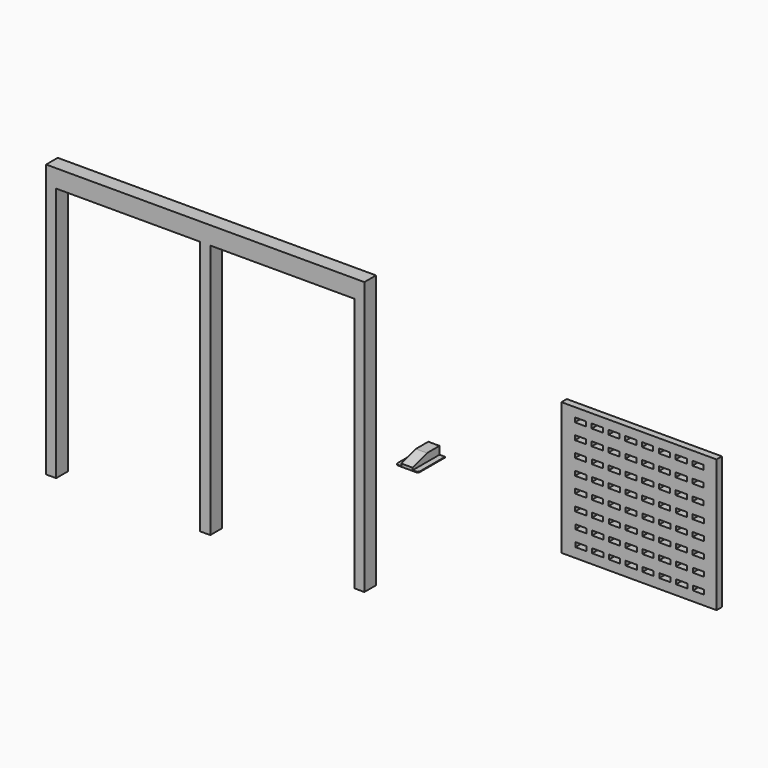
from build123d import *

# Parameters (mm, degrees)
F0_W      = 100
F0_H      = 150
F1_DEPTH  = 3
F2_R      = 10
F3_W      = 50
F3_H      = 150
F4_DEPTH  = 35
F6_DEPTH  = 75.001
F7_W      = 643.5
F7_H      = 80
F8_DEPTH  = 65
F9_W      = 693
F9_H      = 593
F9_W_2    = 50
F9_H_2    = 20
F10_DEPTH = 30


with BuildPart() as f1:
    # F0 (on Top) → F1 (new body)
    with BuildSketch(Plane.XY):
        Rectangle(F0_W, F0_H)
    extrude(amount=F1_DEPTH)

    # F2
    f2_edges = [f1.edges().sort_by_distance(p)[0] for p in [
        (-50, -75, 1.5),
        (50, -75, 1.5),
    ]]
    fillet(f2_edges, radius=F2_R)

    # F3 (on face) → F4 (join)
    with BuildSketch(Plane.XY.offset(3)):
        Rectangle(F3_W, F3_H)
    extrude(amount=F4_DEPTH)

    # F5 (on face) → F6 (cut, through all)
    with BuildSketch(Plane.YZ.offset(25)):
        Polygon((-75, 13), (5, 38), (-75, 38), align=None)
    extrude(amount=-F6_DEPTH, mode=Mode.SUBTRACT)


with BuildPart() as f8:
    # F7 (on Front) → F8 (new body)
    with BuildSketch(Plane.XZ):
        with Locations((-1253.873087, 626.134545)):
            Rectangle(F7_W, F7_H)
        Polygon((-1620.623087, 666.134545), (-1620.623087, -552.865455), (-1575.623087, -552.865455), (-1575.623087, 586.134545), (-1575.623087, 666.134545), align=None)
        Polygon((-932.123087, 666.134545), (-932.123087, 586.134545), (-932.123087, -552.865455), (-887.123087, -552.865455), (-887.123087, 586.134545), (-887.123087, 666.134545), align=None)
        with Locations((-565.373087, 626.134545)):
            Rectangle(F7_W, F7_H)
        Polygon((-198.623087, 666.134545), (-243.623087, 666.134545), (-243.623087, 586.134545), (-243.623087, -552.865455), (-198.623087, -552.865455), align=None)
    extrude(amount=F8_DEPTH)


with BuildPart() as f10:
    # F9 (on Front) → F10 (new body)
    with BuildSketch(Plane.XZ):
        with Locations((1000.210637, 160.50047)):
            Rectangle(F9_W, F9_H)
        with Locations((741.034984, -82.994017)):
            Rectangle(F9_W_2, F9_H_2, mode=Mode.SUBTRACT)
        with Locations((816.034984, -82.994017)):
            Rectangle(F9_W_2, F9_H_2, mode=Mode.SUBTRACT)
        with Locations((740.702934, -12.994805)):
            Rectangle(F9_W_2, F9_H_2, mode=Mode.SUBTRACT)
        with Locations((815.702934, -12.994805)):
            Rectangle(F9_W_2, F9_H_2, mode=Mode.SUBTRACT)
        with Locations((891.034984, -82.994017)):
            Rectangle(F9_W_2, F9_H_2, mode=Mode.SUBTRACT)
        with Locations((966.034984, -82.994017)):
            Rectangle(F9_W_2, F9_H_2, mode=Mode.SUBTRACT)
        with Locations((890.702934, -12.994805)):
            Rectangle(F9_W_2, F9_H_2, mode=Mode.SUBTRACT)
        with Locations((965.702934, -12.994805)):
            Rectangle(F9_W_2, F9_H_2, mode=Mode.SUBTRACT)
        with Locations((740.370885, 57.004408)):
            Rectangle(F9_W_2, F9_H_2, mode=Mode.SUBTRACT)
        with Locations((815.370885, 57.004408)):
            Rectangle(F9_W_2, F9_H_2, mode=Mode.SUBTRACT)
        with Locations((740.038835, 127.00362)):
            Rectangle(F9_W_2, F9_H_2, mode=Mode.SUBTRACT)
        with Locations((815.038835, 127.00362)):
            Rectangle(F9_W_2, F9_H_2, mode=Mode.SUBTRACT)
        with Locations((890.370885, 57.004408)):
            Rectangle(F9_W_2, F9_H_2, mode=Mode.SUBTRACT)
        with Locations((965.370885, 57.004408)):
            Rectangle(F9_W_2, F9_H_2, mode=Mode.SUBTRACT)
        with Locations((890.038835, 127.00362)):
            Rectangle(F9_W_2, F9_H_2, mode=Mode.SUBTRACT)
        with Locations((965.038835, 127.00362)):
            Rectangle(F9_W_2, F9_H_2, mode=Mode.SUBTRACT)
        with Locations((1041.034984, -82.994017)):
            Rectangle(F9_W_2, F9_H_2, mode=Mode.SUBTRACT)
        with Locations((1116.034984, -82.994017)):
            Rectangle(F9_W_2, F9_H_2, mode=Mode.SUBTRACT)
        with Locations((1040.702934, -12.994805)):
            Rectangle(F9_W_2, F9_H_2, mode=Mode.SUBTRACT)
        with Locations((1115.702934, -12.994805)):
            Rectangle(F9_W_2, F9_H_2, mode=Mode.SUBTRACT)
        with Locations((1191.034984, -82.994017)):
            Rectangle(F9_W_2, F9_H_2, mode=Mode.SUBTRACT)
        with Locations((1266.034984, -82.994017)):
            Rectangle(F9_W_2, F9_H_2, mode=Mode.SUBTRACT)
        with Locations((1190.702934, -12.994805)):
            Rectangle(F9_W_2, F9_H_2, mode=Mode.SUBTRACT)
        with Locations((1265.702934, -12.994805)):
            Rectangle(F9_W_2, F9_H_2, mode=Mode.SUBTRACT)
        with Locations((1040.370885, 57.004408)):
            Rectangle(F9_W_2, F9_H_2, mode=Mode.SUBTRACT)
        with Locations((1115.370885, 57.004408)):
            Rectangle(F9_W_2, F9_H_2, mode=Mode.SUBTRACT)
        with Locations((1040.038835, 127.00362)):
            Rectangle(F9_W_2, F9_H_2, mode=Mode.SUBTRACT)
        with Locations((1115.038835, 127.00362)):
            Rectangle(F9_W_2, F9_H_2, mode=Mode.SUBTRACT)
        with Locations((1190.370885, 57.004408)):
            Rectangle(F9_W_2, F9_H_2, mode=Mode.SUBTRACT)
        with Locations((1265.370885, 57.004408)):
            Rectangle(F9_W_2, F9_H_2, mode=Mode.SUBTRACT)
        with Locations((1190.038835, 127.00362)):
            Rectangle(F9_W_2, F9_H_2, mode=Mode.SUBTRACT)
        with Locations((1265.038835, 127.00362)):
            Rectangle(F9_W_2, F9_H_2, mode=Mode.SUBTRACT)
        with Locations((739.706786, 197.002833)):
            Rectangle(F9_W_2, F9_H_2, mode=Mode.SUBTRACT)
        with Locations((814.706786, 197.002833)):
            Rectangle(F9_W_2, F9_H_2, mode=Mode.SUBTRACT)
        with Locations((739.374736, 267.002045)):
            Rectangle(F9_W_2, F9_H_2, mode=Mode.SUBTRACT)
        with Locations((814.374736, 267.002045)):
            Rectangle(F9_W_2, F9_H_2, mode=Mode.SUBTRACT)
        with Locations((889.706786, 197.002833)):
            Rectangle(F9_W_2, F9_H_2, mode=Mode.SUBTRACT)
        with Locations((964.706786, 197.002833)):
            Rectangle(F9_W_2, F9_H_2, mode=Mode.SUBTRACT)
        with Locations((889.374736, 267.002045)):
            Rectangle(F9_W_2, F9_H_2, mode=Mode.SUBTRACT)
        with Locations((964.374736, 267.002045)):
            Rectangle(F9_W_2, F9_H_2, mode=Mode.SUBTRACT)
        with Locations((739.042687, 337.001258)):
            Rectangle(F9_W_2, F9_H_2, mode=Mode.SUBTRACT)
        with Locations((814.042687, 337.001258)):
            Rectangle(F9_W_2, F9_H_2, mode=Mode.SUBTRACT)
        with Locations((738.710637, 407.00047)):
            Rectangle(F9_W_2, F9_H_2, mode=Mode.SUBTRACT)
        with Locations((813.710637, 407.00047)):
            Rectangle(F9_W_2, F9_H_2, mode=Mode.SUBTRACT)
        with Locations((889.042687, 337.001258)):
            Rectangle(F9_W_2, F9_H_2, mode=Mode.SUBTRACT)
        with Locations((964.042687, 337.001258)):
            Rectangle(F9_W_2, F9_H_2, mode=Mode.SUBTRACT)
        with Locations((888.710637, 407.00047)):
            Rectangle(F9_W_2, F9_H_2, mode=Mode.SUBTRACT)
        with Locations((963.710637, 407.00047)):
            Rectangle(F9_W_2, F9_H_2, mode=Mode.SUBTRACT)
        with Locations((1039.706786, 197.002833)):
            Rectangle(F9_W_2, F9_H_2, mode=Mode.SUBTRACT)
        with Locations((1114.706786, 197.002833)):
            Rectangle(F9_W_2, F9_H_2, mode=Mode.SUBTRACT)
        with Locations((1039.374736, 267.002045)):
            Rectangle(F9_W_2, F9_H_2, mode=Mode.SUBTRACT)
        with Locations((1114.374736, 267.002045)):
            Rectangle(F9_W_2, F9_H_2, mode=Mode.SUBTRACT)
        with Locations((1189.706786, 197.002833)):
            Rectangle(F9_W_2, F9_H_2, mode=Mode.SUBTRACT)
        with Locations((1264.706786, 197.002833)):
            Rectangle(F9_W_2, F9_H_2, mode=Mode.SUBTRACT)
        with Locations((1189.374736, 267.002045)):
            Rectangle(F9_W_2, F9_H_2, mode=Mode.SUBTRACT)
        with Locations((1264.374736, 267.002045)):
            Rectangle(F9_W_2, F9_H_2, mode=Mode.SUBTRACT)
        with Locations((1039.042687, 337.001258)):
            Rectangle(F9_W_2, F9_H_2, mode=Mode.SUBTRACT)
        with Locations((1114.042687, 337.001258)):
            Rectangle(F9_W_2, F9_H_2, mode=Mode.SUBTRACT)
        with Locations((1038.710637, 407.00047)):
            Rectangle(F9_W_2, F9_H_2, mode=Mode.SUBTRACT)
        with Locations((1113.710637, 407.00047)):
            Rectangle(F9_W_2, F9_H_2, mode=Mode.SUBTRACT)
        with Locations((1189.042687, 337.001258)):
            Rectangle(F9_W_2, F9_H_2, mode=Mode.SUBTRACT)
        with Locations((1264.042687, 337.001258)):
            Rectangle(F9_W_2, F9_H_2, mode=Mode.SUBTRACT)
        with Locations((1188.710637, 407.00047)):
            Rectangle(F9_W_2, F9_H_2, mode=Mode.SUBTRACT)
        with Locations((1263.710637, 407.00047)):
            Rectangle(F9_W_2, F9_H_2, mode=Mode.SUBTRACT)
    extrude(amount=F10_DEPTH)


solid = Compound([f1.part, f8.part, f10.part])
